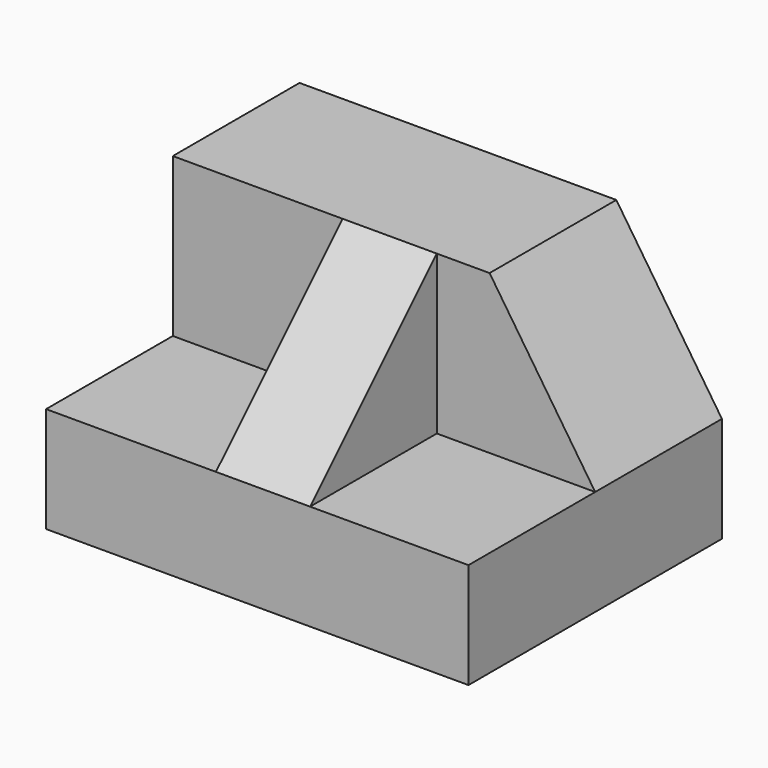
from build123d import *

# Parameters (mm, degrees)
F0_W     = 50.8
F0_H     = 31.75
F1_DEPTH = 38.1
F2_W     = 19.05
F2_H     = 19.05
F3_DEPTH = 19.05
F4_W     = 20.428084
F4_H     = 19.05
F5_DEPTH = 19.05
F7_DEPTH = 25.4
F9_DEPTH = 25.4


with BuildPart() as f1:
    # F0 (on Front) → F1 (new body)
    with BuildSketch(Plane.XZ):
        with Locations((25.4, -15.875)):
            Rectangle(F0_W, F0_H)
    extrude(amount=F1_DEPTH)

    # F2 (on face) → F3 (cut)
    with BuildSketch(Plane.XY):
        with Locations((41.275, -28.575)):
            Rectangle(F2_W, F2_H)
    extrude(amount=-F3_DEPTH, mode=Mode.SUBTRACT)

    # F4 (on face) → F5 (cut)
    with BuildSketch(Plane.XY):
        with Locations((10.214042, -28.575)):
            Rectangle(F4_W, F4_H)
    extrude(amount=-F5_DEPTH, mode=Mode.SUBTRACT)

    # F6 (on face) → F7 (cut)
    with BuildSketch(Plane.YZ.offset(31.75)):
        Polygon((-38.1, -19.05), (-19.05, 0), (-38.1, 0), align=None)
    extrude(amount=-F7_DEPTH, mode=Mode.SUBTRACT)

    # F8 (on face) → F9 (cut)
    with BuildSketch(Plane.XZ.offset(19.05)):
        Polygon((50.8, 0), (38.1, 0), (50.8, -19.05), align=None)
    extrude(amount=-F9_DEPTH, mode=Mode.SUBTRACT)


solid = f1.part
